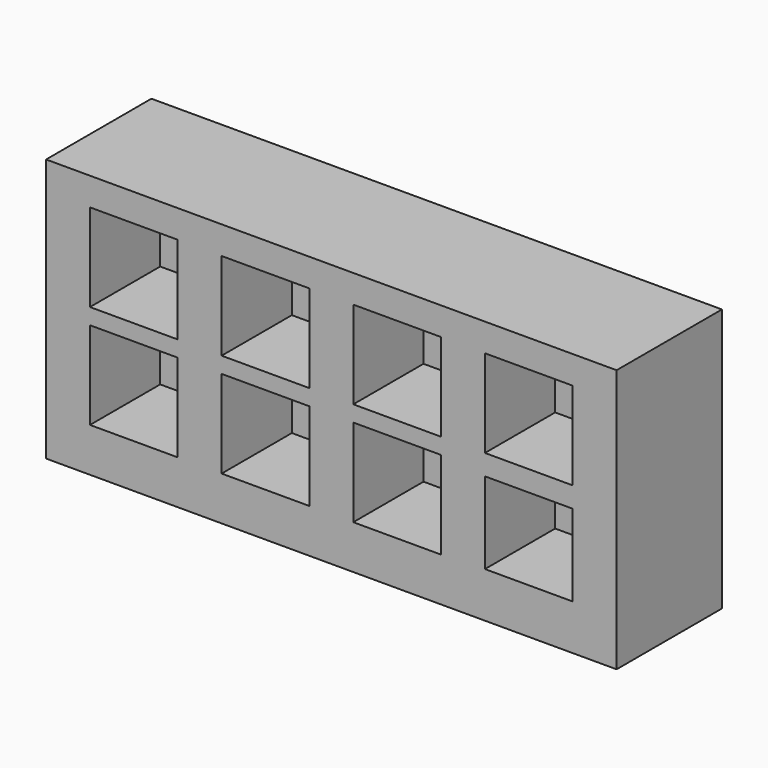
from build123d import *

# Parameters (mm, degrees)
F1_DEPTH = 38.1
F0_W     = 12.7
F0_H     = 12.7
F2_DEPTH = 12.7


with BuildPart() as f1:
    # F0 (on Front) → F1 (new body)
    with BuildSketch(Plane.XZ):
        Polygon((37.198733, 68.132558), (37.198733, 76.2), (-102.501267, 76.2), (-102.501267, 25.4), (-89.801267, 25.4), (-89.801267, 38.1), (-64.401267, 38.1), (-64.401267, 25.4), (-64.401267, 12.7), (-77.101267, 12.7), (-77.101267, 0), (62.598733, 0), (62.598733, 55.432558), (49.898733, 55.432558), (49.898733, 42.732558), (24.498733, 42.732558), (24.498733, 55.432558), (24.498733, 68.132558), align=None)
        Polygon((-51.701267, 12.7), (-51.701267, 25.4), (-51.701267, 38.1), (-26.301267, 38.1), (-26.301267, 25.4), (-26.301267, 12.7), align=None, mode=Mode.SUBTRACT)
        Polygon((-13.601267, 12.7), (-13.601267, 25.4), (-13.601267, 38.1), (11.798733, 38.1), (11.798733, 25.4), (11.798733, 12.7), align=None, mode=Mode.SUBTRACT)
        Polygon((24.498733, 13.150497), (24.498733, 25.4), (24.498733, 36.781578), (49.898733, 36.781578), (49.898733, 13.150497), align=None, mode=Mode.SUBTRACT)
        Polygon((-64.401267, 68.132558), (-64.401267, 55.432558), (-64.401267, 42.732558), (-89.801267, 42.732558), (-89.801267, 68.132558), align=None, mode=Mode.SUBTRACT)
        Polygon((-26.301267, 68.132558), (-26.301267, 55.432558), (-26.301267, 42.732558), (-51.701267, 42.732558), (-51.701267, 55.432558), (-51.701267, 68.132558), align=None, mode=Mode.SUBTRACT)
        Polygon((11.798733, 68.132558), (11.798733, 55.432558), (11.798733, 42.732558), (-13.601267, 42.732558), (-13.601267, 55.432558), (-13.601267, 68.132558), align=None, mode=Mode.SUBTRACT)
        Polygon((-89.801267, 25.4), (-102.501267, 25.4), (-102.501267, 0), (-77.101267, 0), (-77.101267, 12.7), (-89.801267, 12.7), align=None)
        Polygon((62.598733, 55.432558), (62.598733, 76.2), (37.198733, 76.2), (37.198733, 68.132558), (49.898733, 68.132558), (49.898733, 55.432558), align=None)
    extrude(amount=F1_DEPTH)


with BuildPart() as f2:
    # F0 (on Front) → F2 (new body)
    with BuildSketch(Plane.XZ):
        Polygon((-64.401267, 42.732558), (-64.401267, 55.432558), (-64.401267, 68.132558), (-89.801267, 68.132558), (-89.801267, 42.732558), align=None)
        with Locations((-70.751267, 19.05)):
            Rectangle(F0_W, F0_H)
        Polygon((-89.801267, 38.1), (-89.801267, 25.4), (-77.101267, 25.4), (-64.401267, 25.4), (-64.401267, 38.1), align=None)
        with Locations((-83.451267, 19.05)):
            Rectangle(F0_W, F0_H)
        Polygon((-39.001267, 25.4), (-51.701267, 25.4), (-51.701267, 12.7), (-26.301267, 12.7), (-26.301267, 25.4), align=None)
        Polygon((-51.701267, 38.1), (-51.701267, 25.4), (-39.001267, 25.4), (-26.301267, 25.4), (-26.301267, 38.1), align=None)
        Polygon((-26.301267, 42.732558), (-26.301267, 55.432558), (-39.001267, 55.432558), (-51.701267, 55.432558), (-51.701267, 42.732558), align=None)
        Polygon((-39.001267, 55.432558), (-26.301267, 55.432558), (-26.301267, 68.132558), (-51.701267, 68.132558), (-51.701267, 55.432558), align=None)
        Polygon((-0.901267, 25.4), (-13.601267, 25.4), (-13.601267, 12.7), (11.798733, 12.7), (11.798733, 25.4), align=None)
        Polygon((-13.601267, 38.1), (-13.601267, 25.4), (-0.901267, 25.4), (11.798733, 25.4), (11.798733, 38.1), align=None)
        Polygon((-0.901267, 55.432558), (11.798733, 55.432558), (11.798733, 68.132558), (-13.601267, 68.132558), (-13.601267, 55.432558), align=None)
        Polygon((11.798733, 42.732558), (11.798733, 55.432558), (-0.901267, 55.432558), (-13.601267, 55.432558), (-13.601267, 42.732558), align=None)
        Polygon((49.898733, 42.732558), (49.898733, 55.432558), (37.198733, 55.432558), (24.498733, 55.432558), (24.498733, 42.732558), align=None)
        with Locations((30.848733, 61.782558)):
            Rectangle(F0_W, F0_H)
        with Locations((43.548733, 61.782558)):
            Rectangle(F0_W, F0_H)
        Polygon((24.498733, 36.781578), (24.498733, 25.4), (24.498733, 13.150497), (49.898733, 13.150497), (49.898733, 36.781578), align=None)
    extrude(amount=F2_DEPTH)


solid = Compound([f1.part, f2.part])
